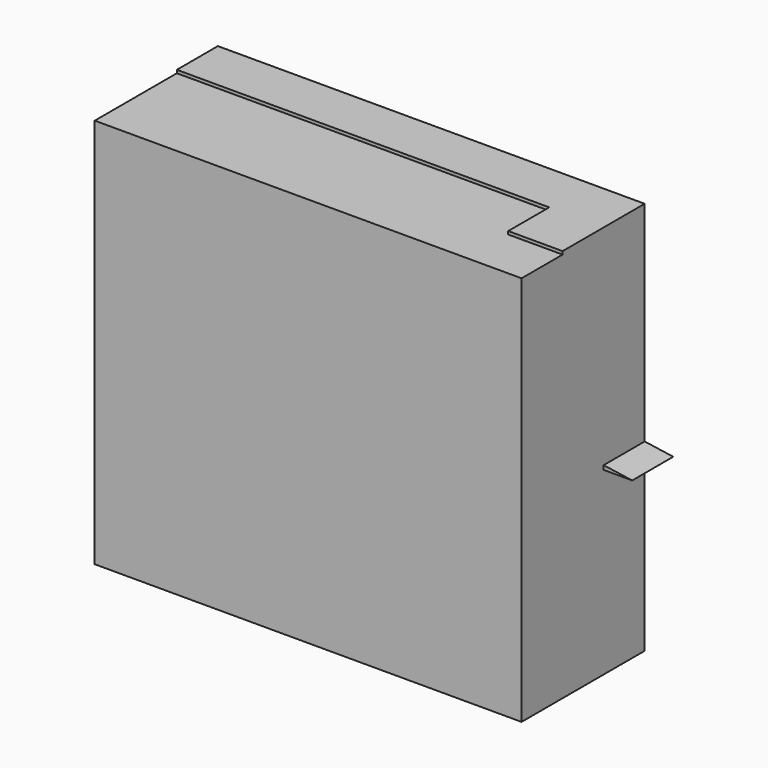
from build123d import *

# Parameters (mm, degrees)
F0_W      = 193.780676
F0_H      = 193.357542
F1_DEPTH  = 25.4
F2_W      = 185.913056
F2_H      = 193.357542
F3_DEPTH  = 25.4
F4_W      = 25.4
F4_H      = 193.357542
F5_DEPTH  = 25.4
F6_W      = 26.91965
F6_H      = 194.875538
F7_DEPTH  = 25.4
F8_W      = 211.313056
F8_H      = 194.875538
F8_W_2    = 150.167435
F8_H_2    = 150.83959
F9_DEPTH  = 25.4
F11_DEPTH = 25.4


with BuildPart() as f1:
    # F0 (on Front) → F1 (new body)
    with BuildSketch(Plane.XZ):
        with Locations((-0.897467, -0.267394)):
            Rectangle(F0_W, F0_H)
    extrude(amount=F1_DEPTH)

    # F2 (on face) → F3 (join)
    with BuildSketch(Plane.XZ.offset(25.4)):
        with Locations((-4.831277, -0.267394)):
            Rectangle(F2_W, F2_H)
    extrude(amount=F3_DEPTH)

    # F4 (on face) → F5 (join)
    with BuildSketch(Plane.YZ.offset(88.125251)):
        with Locations((-38.1, -0.267394)):
            Rectangle(F4_W, F4_H)
    extrude(amount=F5_DEPTH)

    # F6 (on face) → F7 (join)
    with BuildSketch(Plane(origin=(0, -25.4, 0), x_dir=(-1, 0, 0), z_dir=(0, 1, 0))):
        with Locations((-100.065426, 0.491604)):
            Rectangle(F6_W, F6_H)
    extrude(amount=F7_DEPTH)

    # F8 (on face) → F9 (join)
    with BuildSketch(Plane(origin=(0, 0, 0), x_dir=(-1, 0, 0), z_dir=(0, 1, 0))):
        with Locations((-7.868723, 0.491604)):
            Rectangle(F8_W, F8_H)
        with Locations((-0.97549, -0.210028)):
            Rectangle(F8_W_2, F8_H_2, mode=Mode.SUBTRACT)
    extrude(amount=F9_DEPTH)

    # F10 (on face) → F11 (join)
    with BuildSketch(Plane(origin=(0, 0, 0), x_dir=(-1, 0, 0), z_dir=(0, 1, 0))):
        Polygon((56.883931, -0.210028), (0, 0), (-76.059207, -0.210028), (-127.674758, -7.74778), (56.8561, -7.74778), align=None)
    extrude(amount=F11_DEPTH)


solid = f1.part
